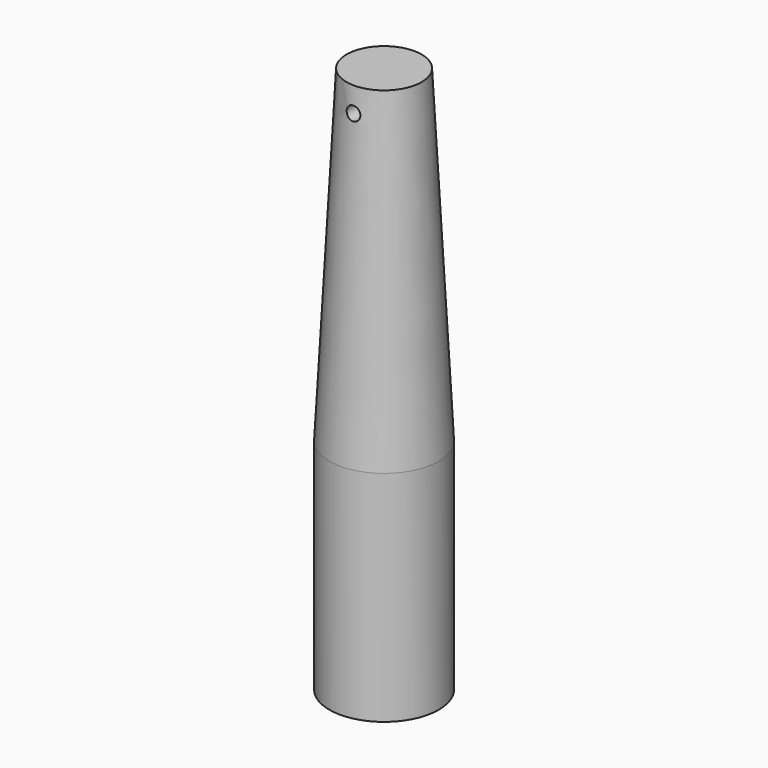
from build123d import *

# Parameters (mm, degrees)
F0_R     = 12.7
F1_DEPTH = 76.2
F1_TAPER = 3
F2_R     = 1.5875
F3_DEPTH = 63.5
F4_DEPTH = 50.8


with BuildPart() as f1:
    # F0 (on Top) → F1 (new body)
    with BuildSketch(Plane.XY):
        Circle(F0_R)
    extrude(amount=F1_DEPTH, taper=F1_TAPER)

    # F2 (on Front) → F3 (cut, symmetric)
    with BuildSketch(Plane.XZ):
        with Locations((0, 70.6274136901)):
            Circle(F2_R)
    extrude(amount=F3_DEPTH, both=True, mode=Mode.SUBTRACT)

    # F4 (add): a face of the model
    f4_faces = [f1.faces().sort_by_distance(p)[0] for p in [
        (0, 0, 0),
    ]]
    extrude(f4_faces, amount=F4_DEPTH)


solid = f1.part
